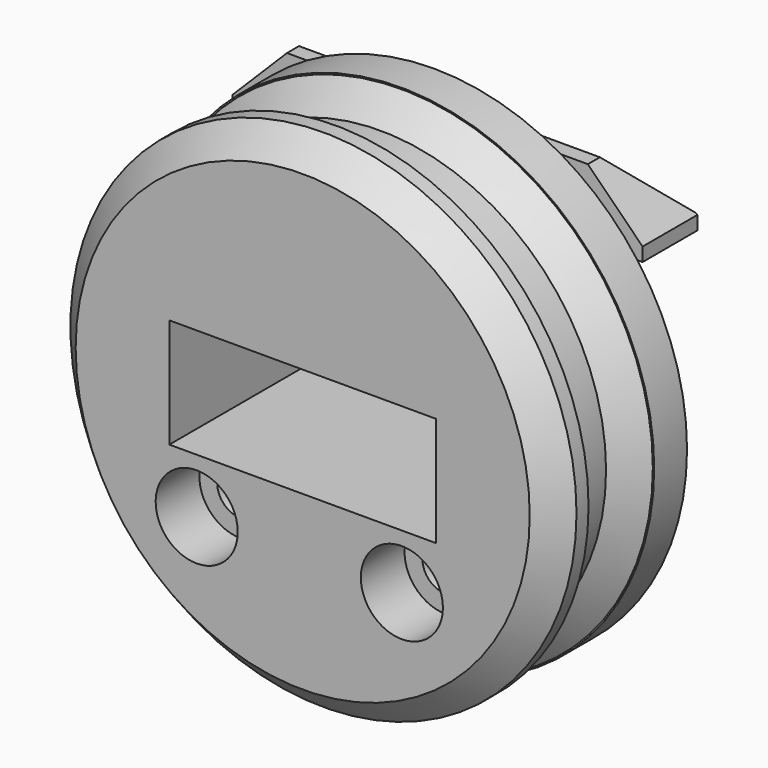
from build123d import *

# Parameters (mm, degrees)
CYLINDER027_R             = 3
CYLINDER027_DEPTH         = 4
BOX005009016_W            = 16
BOX005009016_H            = 5.6
BOX005009016_DEPTH        = 3
CYLINDER026_R             = 1.7
CYLINDER026_DEPTH         = 30
FUSION026_PITCH_ANGLE     = 90
FUSION026_PLACEMENT_ANGLE = 90
FUSION025_PITCH_ANGLE     = 90
FUSION025_PLACEMENT_ANGLE = 90
BOX005009013_W            = 19.5
BOX005009013_H            = 400
BOX005009013_DEPTH        = 8
CYLINDER023_R             = 3.1
CYLINDER023_DEPTH         = 6
CYLINDER023_ROLL_ANGLE    = 90
CHAMFER015_SIZE           = 2.9
CHAMFER013_SIZE           = 2.9
CYLINDER021_R             = 18.5
CYLINDER021_DEPTH         = 3
CYLINDER021_ROLL_ANGLE    = 90
CYLINDER020_R             = 16.5
CYLINDER020_DEPTH         = 10
CYLINDER020_ROLL_ANGLE    = 90
CYLINDER019_R             = 18.5
CYLINDER019_DEPTH         = 3
CYLINDER019_ROLL_ANGLE    = 90
BOX005009014_W            = 30
BOX005009014_H            = 5
BOX005009014_DEPTH        = 5
CHAMFER016_SIZE           = 4
CHAMFER017_SIZE           = 4
CHAMFER018_SIZE           = 3.9
CHAMFER020_SIZE           = 1.9
CHAMFER021_SIZE           = 1.9
CHAMFER022_SIZE           = 1.9


with BuildPart() as cylinder018:
    # Cylinder027 → Cylinder027 (new body)
    with BuildSketch(Plane.XY):
        Circle(CYLINDER027_R)
    extrude(amount=CYLINDER027_DEPTH)


with BuildPart() as cube003:
    # Box005009016 → Box005009016 (new body)
    with BuildSketch(Plane(origin=(-3.2, -2.8, 18), x_dir=(1, 0, 0), z_dir=(0, 0, 1))):
        with Locations((8, 2.8)):
            Rectangle(BOX005009016_W, BOX005009016_H)
    extrude(amount=BOX005009016_DEPTH)


with BuildPart() as cylinder017:
    # Cylinder026 → Cylinder026 (new body)
    with BuildSketch(Plane.XY.offset(1)):
        Circle(CYLINDER026_R)
    extrude(amount=CYLINDER026_DEPTH)


with BuildPart() as m3_cavity003:
    # Fusion026 base: copy of Cylinder017
    add(cylinder017.part)

    # Fusion026: union Cylinder018, Cube003
    add(cylinder018.part)
    add(cube003.part)


with BuildPart() as m3_cavity003_1:
    # Fusion026 pitch: moved
    add(m3_cavity003.part.rotate(Axis((0, 0, 0), (0, 1, 0)), FUSION026_PITCH_ANGLE))


with BuildPart() as m3_cavity003_2:
    # Fusion026 placement: moved
    add(m3_cavity003_1.part.moved(Location((15, 249, -6))).rotate(Axis((15, 249, -6), (0, 0, 1)), FUSION026_PLACEMENT_ANGLE))


with BuildPart() as m3_cavity002:
    # Fusion025 base: copy of Cylinder017
    add(cylinder017.part)

    # Fusion025: union Cylinder018, Cube003
    add(cylinder018.part)
    add(cube003.part)


with BuildPart() as m3_cavity002_1:
    # Fusion025 pitch: moved
    add(m3_cavity002.part.rotate(Axis((0, 0, 0), (0, 1, 0)), FUSION025_PITCH_ANGLE))


with BuildPart() as m3_cavity002_2:
    # Fusion025 placement: moved
    add(m3_cavity002_1.part.moved(Location((0, 249, -6))).rotate(Axis((0, 249, -6), (0, 0, 1)), FUSION025_PLACEMENT_ANGLE))


with BuildPart() as scale_hole002:
    # Box005009013 → Box005009013 (new body)
    with BuildSketch(Plane(origin=(-2, 0, -2), x_dir=(1, 0, 0), z_dir=(0, 0, 1))):
        with Locations((9.75, 200)):
            Rectangle(BOX005009013_W, BOX005009013_H)
    extrude(amount=BOX005009013_DEPTH)


with BuildPart() as lug_hole:
    # Cylinder023 → Cylinder023 (new body)
    with BuildSketch(Plane.XY):
        Circle(CYLINDER023_R)
    extrude(amount=CYLINDER023_DEPTH)


with BuildPart() as lug_hole_1:
    # Cylinder023 roll: moved
    add(lug_hole.part.rotate(Axis((0, 0, 0), (1, 0, 0)), CYLINDER023_ROLL_ANGLE))


with BuildPart() as lug_hole_2:
    # Cylinder023 placement: moved
    add(lug_hole_1.part.moved(Location((7.75, 328, -7))))


with BuildPart() as chamfer015:
    # Chamfer015 base: copy of lug-hole
    add(lug_hole_2.part)

    # Chamfer015
    chamfer015_edges = [chamfer015.edges().sort_by_distance(p)[0] for p in [
        (4.65, 328, -7),
    ]]
    chamfer(chamfer015_edges, length=CHAMFER015_SIZE)


with BuildPart() as chamfer015_1:
    # Chamfer015 placement: moved
    add(chamfer015.part.moved(Location((6, 0, 0))))


with BuildPart() as part_mirroring003:
    # Part__Mirroring003: instance of Chamfer015
    add(chamfer015_1.part.mirror(Plane(origin=(0, 200, 0), x_dir=(1, 0, 0), z_dir=(0, 1, 0))))


with BuildPart() as chamfer013:
    # Chamfer013 base: copy of lug-hole
    add(lug_hole_2.part)

    # Chamfer013
    chamfer013_edges = [chamfer013.edges().sort_by_distance(p)[0] for p in [
        (4.65, 328, -7),
    ]]
    chamfer(chamfer013_edges, length=CHAMFER013_SIZE)


with BuildPart() as chamfer013_1:
    # Chamfer013 placement: moved
    add(chamfer013.part.moved(Location((-6, 0, 0))))


with BuildPart() as fusion017:
    # Part__Mirroring001: instance of Chamfer013
    add(chamfer013_1.part.mirror(Plane(origin=(0, 200, 0), x_dir=(1, 0, 0), z_dir=(0, 1, 0))))

    # Fusion017: union Part__Mirroring003
    add(part_mirroring003.part)


with BuildPart() as fusion017_1:
    # Fusion017 placement: moved
    add(fusion017.part.moved(Location((0, 186, 0))))


with BuildPart() as end_cheek002:
    # Cylinder021 → Cylinder021 (new body)
    with BuildSketch(Plane.XY):
        Circle(CYLINDER021_R)
    extrude(amount=CYLINDER021_DEPTH)


with BuildPart() as end_cheek002_1:
    # Cylinder021 roll: moved
    add(end_cheek002.part.rotate(Axis((0, 0, 0), (1, 0, 0)), CYLINDER021_ROLL_ANGLE))


with BuildPart() as end_cheek002_2:
    # Cylinder021 placement: moved
    add(end_cheek002_1.part.moved(Location((7.75, 486, 2))))


with BuildPart() as cable_tie_cyl002:
    # Cylinder020 → Cylinder020 (new body)
    with BuildSketch(Plane.XY):
        Circle(CYLINDER020_R)
    extrude(amount=CYLINDER020_DEPTH)


with BuildPart() as cable_tie_cyl002_1:
    # Cylinder020 roll: moved
    add(cable_tie_cyl002.part.rotate(Axis((0, 0, 0), (1, 0, 0)), CYLINDER020_ROLL_ANGLE))


with BuildPart() as cable_tie_cyl002_2:
    # Cylinder020 placement: moved
    add(cable_tie_cyl002_1.part.moved(Location((7.75, 485, 2))))


with BuildPart() as cut020:
    # Cylinder019 → Cylinder019 (new body)
    with BuildSketch(Plane.XY):
        Circle(CYLINDER019_R)
    extrude(amount=CYLINDER019_DEPTH)


with BuildPart() as cut020_1:
    # Cylinder019 roll: moved
    add(cut020.part.rotate(Axis((0, 0, 0), (1, 0, 0)), CYLINDER019_ROLL_ANGLE))


with BuildPart() as cut020_2:
    # Cylinder019 placement: moved
    add(cut020_1.part.moved(Location((7.75, 477, 2))))

    # Fusion012: union end-cheek002, cable-tie-cyl002
    add(end_cheek002_2.part)
    add(cable_tie_cyl002_2.part)


with BuildPart() as cut020_3:
    # Fusion012 placement: moved
    add(cut020_2.part.moved(Location((0, -225, 0))))

    # Cut017: cut Fusion017
    add(fusion017_1.part, mode=Mode.SUBTRACT)

    # Cut020: cut scale-hole002
    add(scale_hole002.part, mode=Mode.SUBTRACT)


with BuildPart() as slide_end_r:
    # Box005009014 → Box005009014 (new body)
    with BuildSketch(Plane(origin=(-7, 261, 13), x_dir=(1, 0, 0), z_dir=(0, 0, 1))):
        with Locations((15, 2.5)):
            Rectangle(BOX005009014_W, BOX005009014_H)
    extrude(amount=BOX005009014_DEPTH)

    # Chamfer016
    chamfer016_edges = [slide_end_r.edges().sort_by_distance(p)[0] for p in [
        (-7, 263.5, 18),
    ]]
    chamfer(chamfer016_edges, length=CHAMFER016_SIZE)

    # Chamfer017
    chamfer017_edges = [slide_end_r.edges().sort_by_distance(p)[0] for p in [
        (23, 263.5, 18),
    ]]
    chamfer(chamfer017_edges, length=CHAMFER017_SIZE)

    # Chamfer018
    chamfer018_edges = [slide_end_r.edges().sort_by_distance(p)[0] for p in [
        (8, 266, 18),
    ]]
    chamfer(chamfer018_edges, length=CHAMFER018_SIZE)

    # Fusion020: union Cut020
    add(cut020_3.part)

    # Chamfer020
    chamfer020_edges = [slide_end_r.edges().sort_by_distance(p)[0] for p in [
        (-8.75, 252, 2),
    ]]
    chamfer(chamfer020_edges, length=CHAMFER020_SIZE)

    # Chamfer021
    chamfer021_edges = [slide_end_r.edges().sort_by_distance(p)[0] for p in [
        (-10.75, 249, 2),
    ]]
    chamfer(chamfer021_edges, length=CHAMFER021_SIZE)

    # Chamfer022
    chamfer022_edges = [slide_end_r.edges().sort_by_distance(p)[0] for p in [
        (-8.75, 258, 2),
    ]]
    chamfer(chamfer022_edges, length=CHAMFER022_SIZE)

    # Cut025: cut M3-cavity002
    add(m3_cavity002_2.part, mode=Mode.SUBTRACT)

    # Cut026: cut M3-cavity003
    add(m3_cavity003_2.part, mode=Mode.SUBTRACT)


solid = slide_end_r.part
